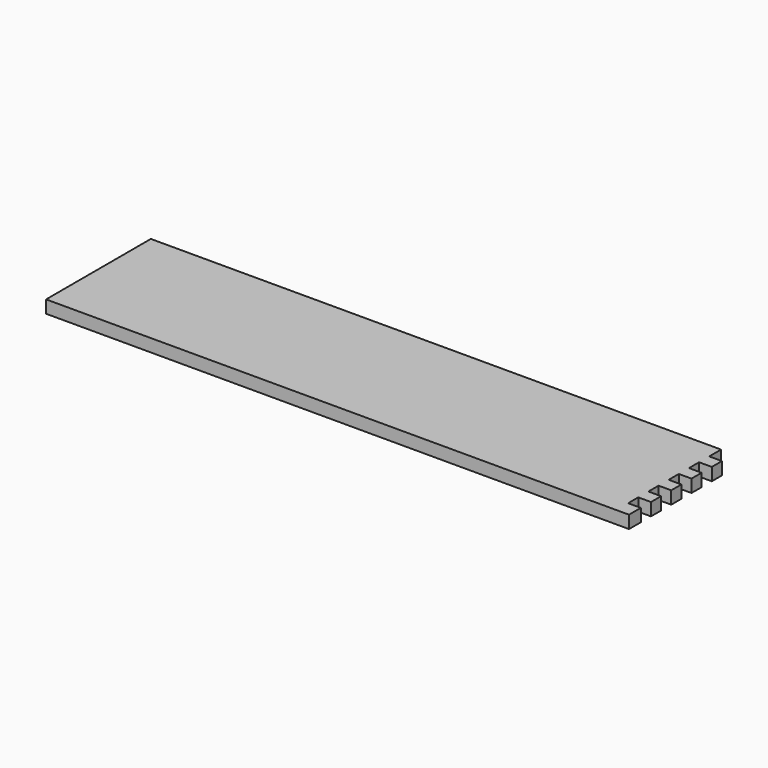
from build123d import *

# Parameters (mm, degrees)
F1_DEPTH = 12


with BuildPart() as f1:
    # F0 (on Top) → F1 (new body)
    with BuildSketch(Plane.XY):
        Polygon((264, 62), (-276, 62), (-276, -62), (276, -62), (276, -48), (264, -48), (264, -36), (276, -36), (276, -24), (264, -24), (264, -12), (276, -12), (276, 0), (264, 0), (264, 12), (276, 12), (276, 24), (264, 24), (264, 36), (276, 36), (276, 48), (264, 48), align=None)
    extrude(amount=F1_DEPTH)


solid = f1.part
